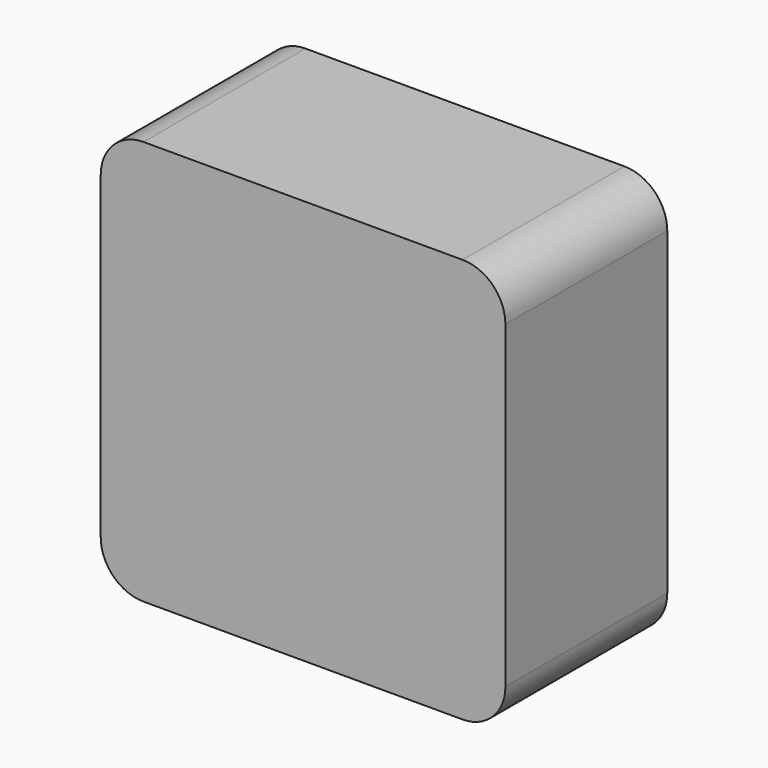
from build123d import *

# Parameters (mm, degrees)
F1_DEPTH = 30


with BuildPart() as f1:
    # F0 (on Front) → F1 (new body)
    with BuildSketch(Plane.XZ):
        with BuildLine():
            Line((53.65, 41.79488), (6.35, 41.79488))
            ThreePointArc((6.35, 41.79488), (1.859872, 39.935008), (0, 35.44488))
            Line((0, 35.44488), (0, -11.85512))
            ThreePointArc((0, -11.85512), (1.859872, -16.345248), (6.35, -18.20512))
            Line((6.35, -18.20512), (53.65, -18.20512))
            ThreePointArc((53.65, -18.20512), (58.140128, -16.345248), (60, -11.85512))
            Line((60, -11.85512), (60, 35.44488))
            ThreePointArc((60, 35.44488), (58.140128, 39.935008), (53.65, 41.79488))
        make_face()
    extrude(amount=-F1_DEPTH)


solid = f1.part
